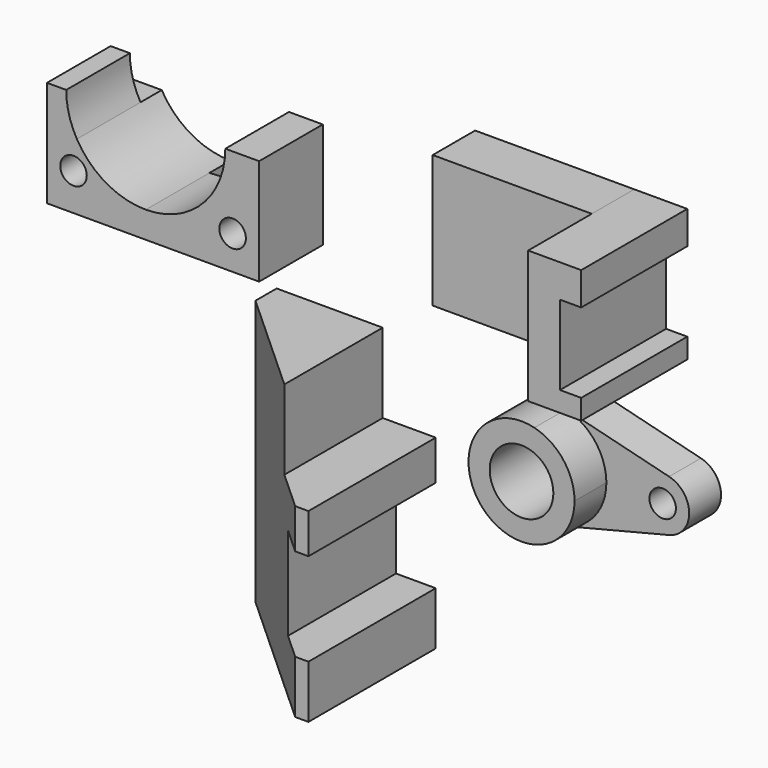
from build123d import *

# Parameters (mm, degrees)
F0_W      = 60
F0_H      = 50
F1_DEPTH  = 20
F2_DEPTH  = 50
F3_R      = 12
F4_DEPTH  = 30
F3_R_2    = 5
F5_DEPTH  = 15
F6_R      = 5
F7_DEPTH  = 40
F8_DEPTH  = 10
F10_DEPTH = 60
F12_DEPTH = 176.7762565444


with BuildPart() as f1:
    # F0 (on Front) → F1 (new body)
    with BuildSketch(Plane.XZ):
        with Locations((30, 25)):
            Rectangle(F0_W, F0_H)
    extrude(amount=F1_DEPTH)


with BuildPart() as f2:
    # F0 (on Front) → F2 (new body)
    with BuildSketch(Plane.XZ):
        Polygon((60, 50), (60, 0), (80, 0), (80, 7.5881431788), (72, 7.5881431788), (72, 37.5881431788), (80, 37.5881431788), (80, 50), align=None)
    extrude(amount=F2_DEPTH)


with BuildPart() as f4:
    # F3 (on Front) → F4 (new body)
    with BuildSketch(Plane.XZ):
        with BuildLine():
            ThreePointArc((46.3445479762, -60.2077629417), (57.2579442358, -53.1131571268), (61.4938354755, -40.8049129388))
            ThreePointArc((61.4938354755, -40.8049129388), (57.2579442358, -28.4966687507), (46.3445479762, -21.4020629359))
            ThreePointArc((46.3445479762, -21.4020629359), (21.4938354755, -40.8049129388), (46.3445479762, -60.2077629417))
        make_face()
        with Locations((41.4938354755, -40.8049129388)):
            Circle(F3_R, mode=Mode.SUBTRACT)
    extrude(amount=F4_DEPTH)

    # F3 (on Front) → F5 (join)
    with BuildSketch(Plane.XZ):
        with BuildLine():
            ThreePointArc((46.3445479762, -21.4020629359), (57.2579442358, -28.4966687507), (61.4938354755, -40.8049129388))
            ThreePointArc((61.4938354755, -40.8049129388), (57.2579442358, -53.1131571268), (46.3445479762, -60.2077629417))
            Line((46.3445479762, -60.2077629417), (85.1502479821, -50.5063379402))
            ThreePointArc((85.1502479821, -50.5063379402), (92.7248917317, -40.8049129388), (85.1502479821, -31.1034879373))
            Line((85.1502479821, -31.1034879373), (46.3445479762, -21.4020629359))
        make_face()
        with Locations((82.7248917317, -40.8049129388)):
            Circle(F3_R_2, mode=Mode.SUBTRACT)
    extrude(amount=F5_DEPTH)


with BuildPart() as f7:
    # F6 (on Front) → F7 (new body)
    with BuildSketch(Plane.XZ):
        with BuildLine():
            Line((-129.4579889352, 40), (-129.4579889352, 25))
            Line((-129.4579889352, 25), (-118.187835116, 25))
            ThreePointArc((-118.187835116, 25), (-121.1848477911, 32.2354286469), (-122.2070730024, 40))
            Line((-122.2070730024, 40), (-129.4579889352, 40))
        make_face()
        with BuildLine():
            Line((-129.4579889352, 0), (-92.2070730024, 0))
            Line((-92.2070730024, 0), (-92.2070730024, 10))
            ThreePointArc((-92.2070730024, 10), (-107.2070730024, 14.0192378865), (-118.187835116, 25))
            Line((-118.187835116, 25), (-129.4579889352, 25))
            Line((-129.4579889352, 25), (-129.4579889352, 0))
        make_face()
        with Locations((-119.4579889352, 14.0599424131)):
            Circle(F6_R, mode=Mode.SUBTRACT)
        with BuildLine():
            Line((-92.2070730024, 0), (-49.4579889352, 0))
            Line((-49.4579889352, 0), (-49.4579889352, 40))
            Line((-49.4579889352, 40), (-62.2070730024, 40))
            ThreePointArc((-62.2070730024, 40), (-70.9938695668, 18.7867965644), (-92.2070730024, 10))
            Line((-92.2070730024, 10), (-92.2070730024, 0))
        make_face()
        with Locations((-59.4579889352, 12.7520402892)):
            Circle(F6_R, mode=Mode.SUBTRACT)
    extrude(amount=F7_DEPTH)

    # F6 (on Front) → F8 (cut)
    with BuildSketch(Plane.XZ):
        with BuildLine():
            Line((-129.4579889352, 40), (-129.4579889352, 25))
            Line((-129.4579889352, 25), (-118.187835116, 25))
            ThreePointArc((-118.187835116, 25), (-121.1848477911, 32.2354286469), (-122.2070730024, 40))
            Line((-122.2070730024, 40), (-129.4579889352, 40))
        make_face()
        with BuildLine():
            Line((-92.2070730024, 0), (-49.4579889352, 0))
            Line((-49.4579889352, 0), (-49.4579889352, 40))
            Line((-49.4579889352, 40), (-62.2070730024, 40))
            ThreePointArc((-62.2070730024, 40), (-70.9938695668, 18.7867965644), (-92.2070730024, 10))
            Line((-92.2070730024, 10), (-92.2070730024, 0))
        make_face()
        with Locations((-59.4579889352, 12.7520402892)):
            Circle(F6_R, mode=Mode.SUBTRACT)
    extrude(amount=F8_DEPTH, mode=Mode.SUBTRACT)


with BuildPart() as f10:
    # F9 (on Front) → F10 (new body)
    with BuildSketch(Plane.XZ):
        Polygon((-74.8537646009, -26.7752565444), (-74.8537646009, -126.7752565444), (-14.8537646009, -126.7752565444), (-14.8537646009, -106.7752565444), (-29.8537646009, -106.7752565444), (-29.8537646009, -71.7752565444), (-14.8537646009, -71.7752565444), (-14.8537646009, -56.7752565444), (-34.8537646009, -56.7752565444), (-34.8537646009, -26.7752565444), align=None)
    extrude(amount=F10_DEPTH)

    # F11 (on face) → F12 (cut, through all)
    with BuildSketch(Plane(origin=(0, 0, -126.7752565444), x_dir=(1, 0, 0), z_dir=(0, 0, -1))):
        Polygon((-74.8537646009, 60), (-74.8537646009, 10), (-19.8537646009, 60), align=None)
    extrude(amount=-F12_DEPTH, mode=Mode.SUBTRACT)


solid = Compound([f1.part, f2.part, f4.part, f7.part, f10.part])
